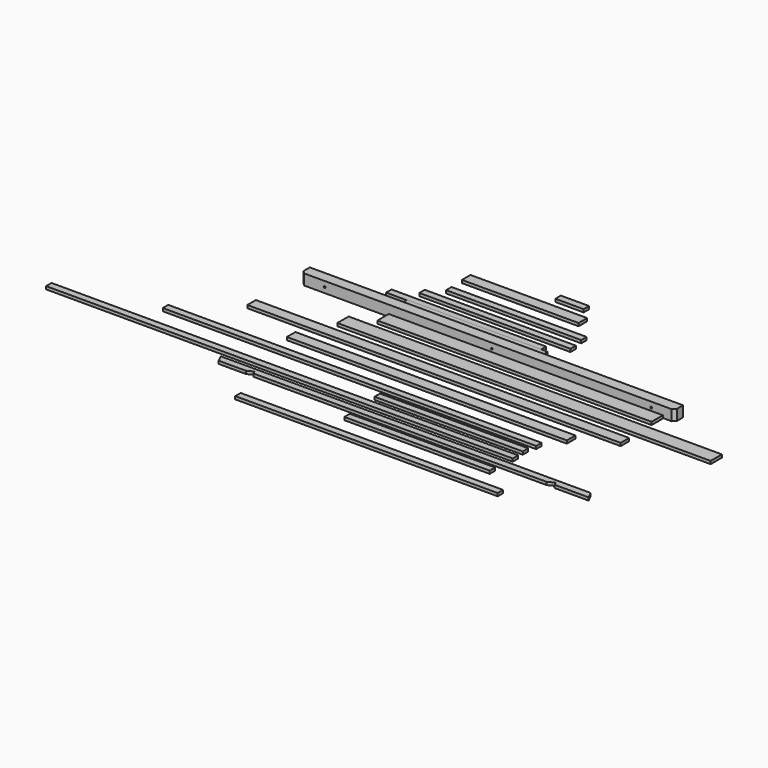
from build123d import *

# Parameters (mm, degrees)
F0_W      = 4876.8
F0_H      = 184.15
F1_DEPTH  = 38.1
F2_W      = 3581.4
F2_H      = 184.15
F3_DEPTH  = 38.1
F4_W      = 4876.8
F4_H      = 139.7
F5_DEPTH  = 139.7
F6_SIZE   = 38.1
F7_W      = 4876.8
F7_H      = 139.7
F8_DEPTH  = 38.1
F9_W      = 3657.6
F9_H      = 139.7
F10_DEPTH = 38.1
F11_W     = 1936.75
F11_H     = 88.9
F12_DEPTH = 38.1
F13_W     = 4876.8
F13_H     = 88.9
F14_DEPTH = 38.1
F15_W     = 6096
F15_H     = 88.9
F16_DEPTH = 38.1
F18_DEPTH = 38.1
F19_W     = 3429
F19_H     = 88.9
F20_DEPTH = 38.1
F21_W     = 1898.65
F21_H     = 88.9
F22_DEPTH = 38.1
F23_W     = 2019.3
F23_H     = 88.9
F24_DEPTH = 38.1
F25_W     = 1974.85
F25_H     = 88.9
F25_W_2   = 1765.3
F25_W_3   = 1524
F25_H_2   = 139.7
F25_W_4   = 1835.15
F25_W_5   = 368.3
F26_DEPTH = 38.1
F27_R     = 11.1125
F28_DEPTH = 2543.069237


with BuildPart() as f1:
    # F0 (on Top) → F1 (new body)
    with BuildSketch(Plane.XY):
        with Locations((1360.442124, 7.167999)):
            Rectangle(F0_W, F0_H)
    extrude(amount=F1_DEPTH)


with BuildPart() as f3:
    # F2 (on Top) → F3 (new body)
    with BuildSketch(Plane.XY):
        with Locations((998.129272, 305.835106)):
            Rectangle(F2_W, F2_H)
    extrude(amount=F3_DEPTH)


with BuildPart() as f5:
    # F4 (on Top) → F5 (new body)
    with BuildSketch(Plane.XY):
        with Locations((495.436847, 476.611887)):
            Rectangle(F4_W, F4_H)
    extrude(amount=F5_DEPTH)

    # F6
    f6_edges = [f5.edges().sort_by_distance(p)[0] for p in [
        (-1942.963153, 406.761887, 69.85),
        (2933.836847, 406.761887, 69.85),
    ]]
    chamfer(f6_edges, length=F6_SIZE)

    # F27 (on face) → F28 (cut, through all)
    with BuildSketch(Plane(origin=(0, 546.461887, 0), x_dir=(-1, 0, 0), z_dir=(0, 1, 0))):
        with Locations((-2629.036847, 69.85)):
            Circle(F27_R)
        with Locations((1638.163153, 69.85)):
            Circle(F27_R)
        with Locations((-546.236847, 69.85)):
            Circle(F27_R)
    extrude(amount=-F28_DEPTH, mode=Mode.SUBTRACT)


with BuildPart() as f8:
    # F7 (on Top) → F8 (new body)
    with BuildSketch(Plane.XY):
        with Locations((394.892484, -277.753947)):
            Rectangle(F7_W, F7_H)
    extrude(amount=F8_DEPTH)


with BuildPart() as f10:
    # F9 (on Top) → F10 (new body)
    with BuildSketch(Plane.XY):
        with Locations((541.910135, -577.659873)):
            Rectangle(F9_W, F9_H)
    extrude(amount=F10_DEPTH)


with BuildPart() as f12:
    # F11 (on Top) → F12 (new body)
    with BuildSketch(Plane.XY):
        with Locations((1203.910346, -1075.023457)):
            Rectangle(F11_W, F11_H)
    extrude(amount=F12_DEPTH)


with BuildPart() as f14:
    # F13 (on Top) → F14 (new body)
    with BuildSketch(Plane.XY):
        with Locations((-236.50071, -894.366667)):
            Rectangle(F13_W, F13_H)
    extrude(amount=F14_DEPTH)


with BuildPart() as f16:
    # F15 (on Top) → F16 (new body)
    with BuildSketch(Plane.XY):
        with Locations((-859.155558, -1259.908959)):
            Rectangle(F15_W, F15_H)
    extrude(amount=F16_DEPTH)


with BuildPart() as f18:
    # F17 (on Top) → F18 (new body)
    with BuildSketch(Plane.XY):
        Polygon((3285.070679, -1402.120701), (-1547.269722, -1402.120701), (-1502.810123, -1491.020701), (-1147.79754, -1491.020701), (-1068.303563, -1451.265129), (-1048.421485, -1491.020701), (2779.825478, -1491.020701), (2863.861968, -1448.993382), (2884.880164, -1491.020701), (3329.530278, -1491.020701), align=None)
    extrude(amount=F18_DEPTH)


with BuildPart() as f20:
    # F19 (on Top) → F20 (new body)
    with BuildSketch(Plane.XY):
        with Locations((832.141827, -1952.15635)):
            Rectangle(F19_W, F19_H)
    extrude(amount=F20_DEPTH)


with BuildPart() as f22:
    # F21 (on Top) → F22 (new body)
    with BuildSketch(Plane.XY):
        with Locations((1223.707788, -1616.41483)):
            Rectangle(F21_W, F21_H)
    extrude(amount=F22_DEPTH)


with BuildPart() as f24:
    # F23 (on Top) → F24 (new body)
    with BuildSketch(Plane.XY):
        with Locations((-99.231235, 794.758394)):
            Rectangle(F23_W, F23_H)
    extrude(amount=F24_DEPTH)


with BuildPart() as f26:
    # F25 (on Top) → F26 (new body)
    with BuildSketch(Plane.XY):
        with Locations((147.503341, 1000.227287)):
            Rectangle(F25_W, F25_H)
        with Locations((217.758067, 1219.171956)):
            Rectangle(F25_W_2, F25_H)
        with Locations((81.788334, 1522.463235)):
            Rectangle(F25_W_3, F25_H_2)
        with Locations((77.653341, 714.353398)):
            Rectangle(F25_W_4, F25_H)
        with Locations((508.835058, 1767.711356)):
            Rectangle(F25_W_5, F25_H)
    extrude(amount=F26_DEPTH)


solid = Compound([f1.part, f3.part, f5.part, f8.part, f10.part, f12.part, f14.part, f16.part, f18.part, f20.part, f22.part, f24.part, f26.part])
